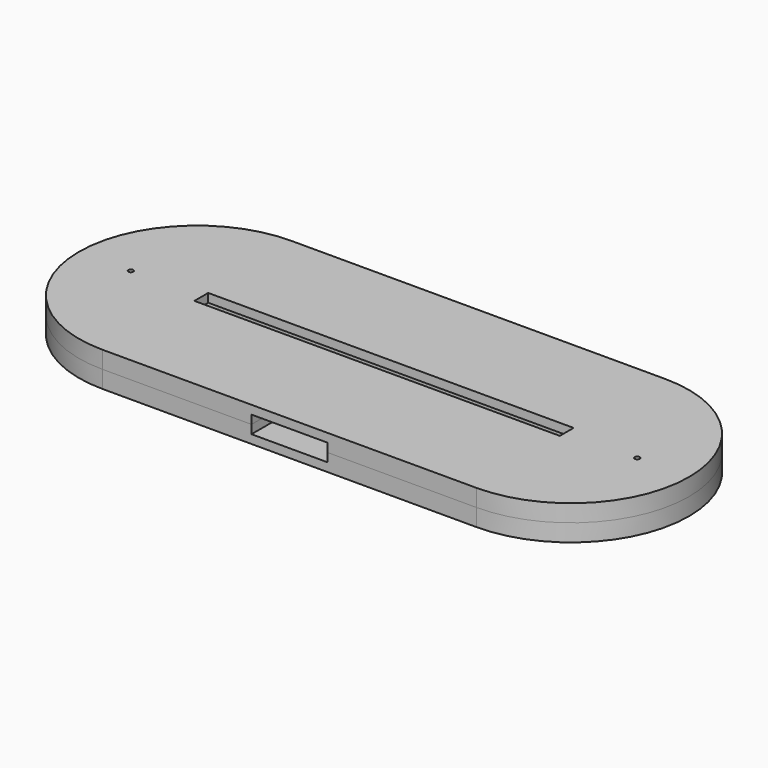
from build123d import *

# Parameters (mm, degrees)
BOX_BOTTOM_HALF_0_W     = 214
BOX_BOTTOM_HALF_0_H     = 84
BOX_BOTTOM_HALF_0_DEPTH = 7
PAD_DEPTH               = 9
POCKET_DEPTH            = 6
SKETCH002_W             = 26.5
SKETCH002_H             = 35
POCKET001_DEPTH         = 6
SKETCH003_W             = 127
SKETCH003_H             = 6
PAD001_DEPTH            = 3
SKETCH004_R             = 0.85
POCKET002_DEPTH         = 467.245989
POLARPATTERN_COUNT      = 2


with BuildPart() as box_bottom_half_0_body:
    # box_bottom_half_0 → box_bottom_half_0 (new body)
    with BuildSketch(Plane(origin=(-107, -42, -1), x_dir=(1, 0, 0), z_dir=(0, 0, 1))):
        with Locations((107, 42)):
            Rectangle(BOX_BOTTOM_HALF_0_W, BOX_BOTTOM_HALF_0_H)
    extrude(amount=BOX_BOTTOM_HALF_0_DEPTH)


with BuildPart() as body:
    # Sketch → Pad (new body)
    with BuildSketch(Plane.XY):
        with BuildLine():
            ThreePointArc((-65, 41), (-106, 0), (-65, -41))
            Line((-65, -41), (65, -41))
            ThreePointArc((65, -41), (106, 0), (65, 41))
            Line((-65, 41), (65, 41))
        make_face()
    extrude(amount=PAD_DEPTH)

    # Sketch001 (on Face6 of Pad) → Pocket (cut)
    with BuildSketch(Plane.XY.offset(9)):
        with BuildLine():
            ThreePointArc((-62.5, 6), (-68.5, 0), (-62.5, -6))
            Line((-62.5, -6), (62.5, -6))
            ThreePointArc((62.5, -6), (68.5, 0), (62.5, 6))
            Line((-62.5, 6), (62.5, 6))
        make_face()
    extrude(amount=-POCKET_DEPTH, mode=Mode.SUBTRACT)

    # Sketch002 (on Face5 of Pocket) → Pocket001 (cut)
    with BuildSketch(Plane.XY.offset(9)):
        with Locations((0, -23.5)):
            Rectangle(SKETCH002_W, SKETCH002_H)
    extrude(amount=-POCKET001_DEPTH, mode=Mode.SUBTRACT)

    # Sketch003 (on Face5 of Pocket001) → Pad001 (join)
    with BuildSketch(Plane.XY.offset(9)):
        with BuildLine():
            ThreePointArc((-65, 41), (-106, 0), (-65, -41))
            Line((-65, -41), (65, -41))
            ThreePointArc((65, -41), (106, 0), (65, 41))
            Line((-65, 41), (65, 41))
        make_face()
        Rectangle(SKETCH003_W, SKETCH003_H, mode=Mode.SUBTRACT)
    extrude(amount=PAD001_DEPTH)

    # Sketch004 (on Face12 of Pad001) → Pocket002 (cut, through all)
    with BuildSketch(Plane.XY.offset(12)):
        with Locations((-88, 0)):
            Circle(SKETCH004_R)
    pocket002 = extrude(amount=-POCKET002_DEPTH, mode=Mode.SUBTRACT)

    # PolarPattern: Pocket002 ×2 about axis
    polarpattern_axis = Axis((0, 0, 12), (0, 0, 1))
    for i in range(1, POLARPATTERN_COUNT):
        add(pocket002.rotate(polarpattern_axis, i * 360 / POLARPATTERN_COUNT), mode=Mode.SUBTRACT)


with BuildPart() as bottom_half_0_body:
    # bottom_half_0 base: copy of Body
    add(body.part)

    # bottom_half_0: intersect box_bottom_half_0 body
    add(box_bottom_half_0_body.part, mode=Mode.INTERSECT)


with BuildPart() as top_half_0_body:
    # top_half_0 base: copy of Body
    add(body.part)

    # top_half_0: cut box_bottom_half_0 body
    add(box_bottom_half_0_body.part, mode=Mode.SUBTRACT)


solid = Compound([bottom_half_0_body.part, top_half_0_body.part])
